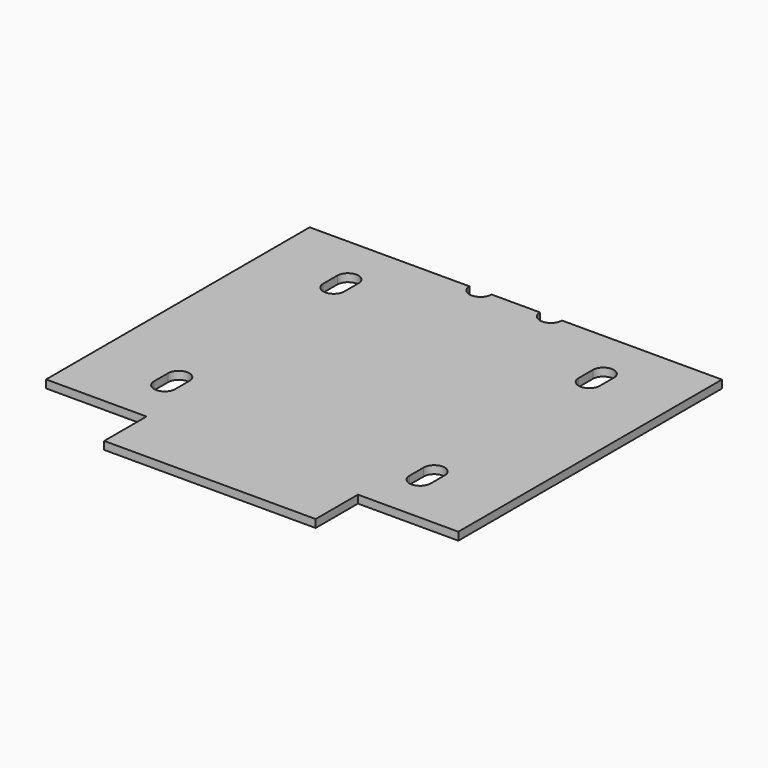
from build123d import *

# Parameters (mm, degrees)
F1_DEPTH = 4.5


with BuildPart() as f1:
    # F0 (on Top) → F1 (new body)
    with BuildSketch(Plane.XY):
        with BuildLine():
            Line((0, 187), (0, 0))
            Line((0, 0), (57, 0))
            Line((57, 0), (57, -30))
            Line((57, -30), (177, -30))
            Line((177, -30), (177, 0))
            Line((177, 0), (234, 0))
            Line((234, 0), (234, 187))
            Line((234, 187), (143.26, 187))
            ThreePointArc((143.26, 187), (137, 180.74), (130.74, 187))
            Line((130.74, 187), (103.26, 187))
            ThreePointArc((103.26, 187), (97, 180.74), (90.74, 187))
            Line((90.74, 187), (0, 187))
        make_face()
        with BuildLine():
            ThreePointArc((50.5, 28.5), (44.5, 22.5), (38.5, 28.5))
            Line((38.5, 28.5), (38.5, 38.5))
            ThreePointArc((38.5, 38.5), (44.5, 44.5), (50.5, 38.5))
            Line((50.5, 38.5), (50.5, 28.5))
        make_face(mode=Mode.SUBTRACT)
        with BuildLine():
            ThreePointArc((195.5, 28.5), (189.5, 22.5), (183.5, 28.5))
            Line((183.5, 28.5), (183.5, 38.5))
            ThreePointArc((183.5, 38.5), (189.5, 44.5), (195.5, 38.5))
            Line((195.5, 38.5), (195.5, 28.5))
        make_face(mode=Mode.SUBTRACT)
        with BuildLine():
            ThreePointArc((50.5, 148.5), (44.5, 142.5), (38.5, 148.5))
            Line((38.5, 148.5), (38.5, 158.5))
            ThreePointArc((38.5, 158.5), (44.5, 164.5), (50.5, 158.5))
            Line((50.5, 158.5), (50.5, 148.5))
        make_face(mode=Mode.SUBTRACT)
        with BuildLine():
            ThreePointArc((195.5, 148.5), (189.5, 142.5), (183.5, 148.5))
            Line((183.5, 148.5), (183.5, 158.5))
            ThreePointArc((183.5, 158.5), (189.5, 164.5), (195.5, 158.5))
            Line((195.5, 158.5), (195.5, 148.5))
        make_face(mode=Mode.SUBTRACT)
    extrude(amount=F1_DEPTH)


solid = f1.part
